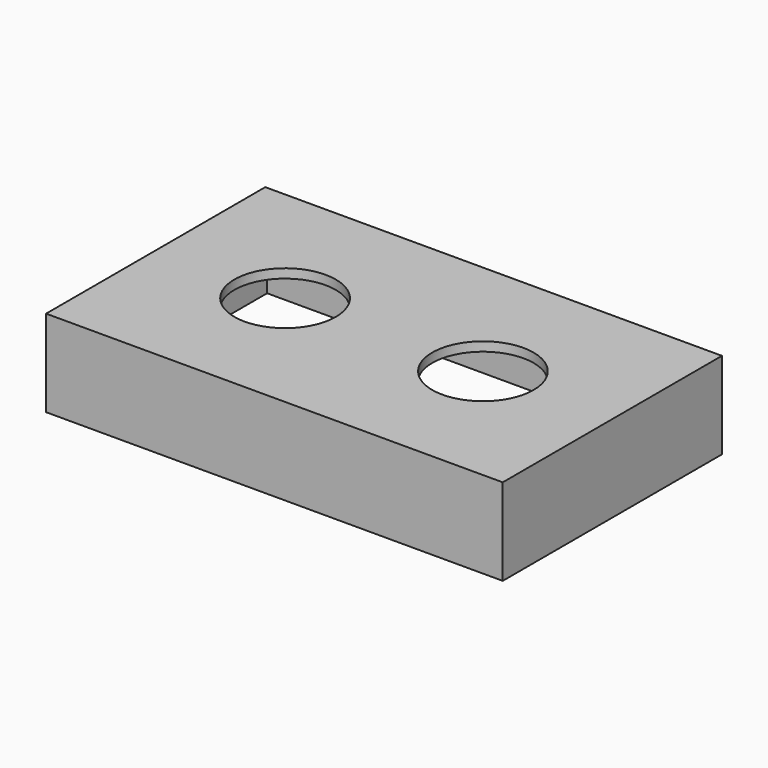
from build123d import *

# Parameters (mm, degrees)
SKETCH_W        = 100
SKETCH_H        = 60
PAD_DEPTH       = 19
SKETCH001_W     = 96
SKETCH001_H     = 56
POCKET_DEPTH    = 17
SKETCH002_R     = 11.1
POCKET001_DEPTH = 20
SKETCH003_R     = 11.1
POCKET002_DEPTH = 20


with BuildPart() as part:
    # Sketch → Pad (new body)
    with BuildSketch(Plane.XY):
        Rectangle(SKETCH_W, SKETCH_H)
    extrude(amount=PAD_DEPTH)

    # Sketch001 → Pocket (cut)
    with BuildSketch(Plane.XY):
        Rectangle(SKETCH001_W, SKETCH001_H)
    extrude(amount=POCKET_DEPTH, mode=Mode.SUBTRACT)

    # Sketch002 → Pocket001 (cut)
    with BuildSketch(Plane.XY):
        with Locations((-21.66, 0)):
            Circle(SKETCH002_R)
    extrude(amount=POCKET001_DEPTH, mode=Mode.SUBTRACT)

    # Sketch003 → Pocket002 (cut)
    with BuildSketch(Plane.XY):
        with Locations((21.659, 0)):
            Circle(SKETCH003_R)
    extrude(amount=POCKET002_DEPTH, mode=Mode.SUBTRACT)


solid = part.part
